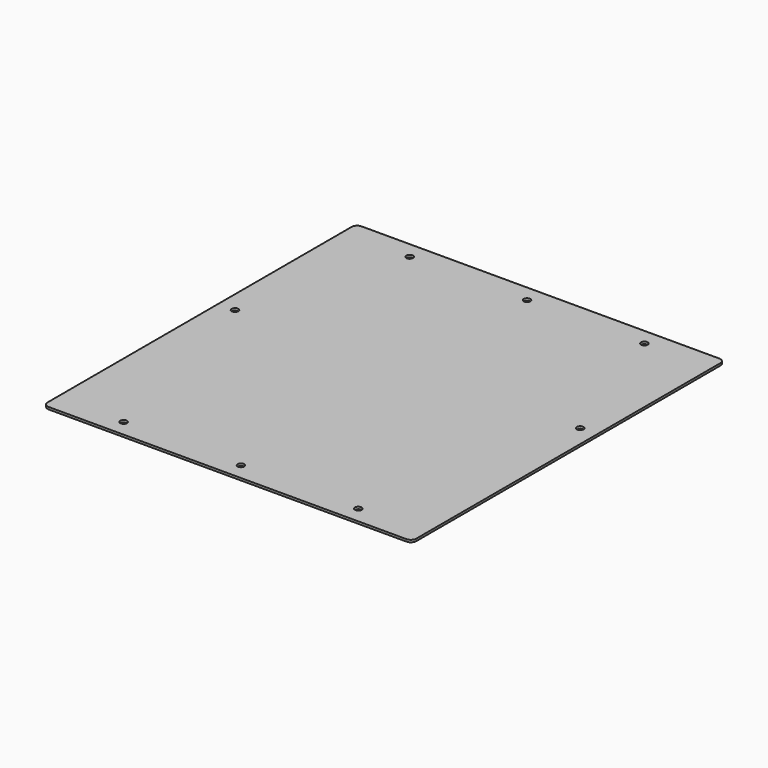
from build123d import *

# Parameters (mm, degrees)
F0_R     = 3
F1_DEPTH = 2


with BuildPart() as f1:
    # F0 (on Top) → F1 (new body)
    with BuildSketch(Plane.XY):
        with BuildLine():
            ThreePointArc((0, 5), (1.464466, 1.464466), (5, 0))
            Line((5, 0), (325, 0))
            ThreePointArc((325, 0), (328.535534, 1.464466), (330, 5))
            Line((330, 5), (330, 345))
            ThreePointArc((330, 345), (328.535534, 348.535534), (325, 350))
            Line((325, 350), (5, 350))
            ThreePointArc((5, 350), (1.464466, 348.535534), (0, 345))
            Line((0, 345), (0, 5))
        make_face()
        with Locations((60, 15)):
            Circle(F0_R, mode=Mode.SUBTRACT)
        with Locations((165, 15)):
            Circle(F0_R, mode=Mode.SUBTRACT)
        with Locations((270, 15)):
            Circle(F0_R, mode=Mode.SUBTRACT)
        with Locations((15, 195.836976)):
            Circle(F0_R, mode=Mode.SUBTRACT)
        with Locations((60, 335)):
            Circle(F0_R, mode=Mode.SUBTRACT)
        with Locations((315, 206.963733)):
            Circle(F0_R, mode=Mode.SUBTRACT)
        with Locations((165, 335)):
            Circle(F0_R, mode=Mode.SUBTRACT)
        with Locations((270, 335)):
            Circle(F0_R, mode=Mode.SUBTRACT)
    extrude(amount=F1_DEPTH)


solid = f1.part
